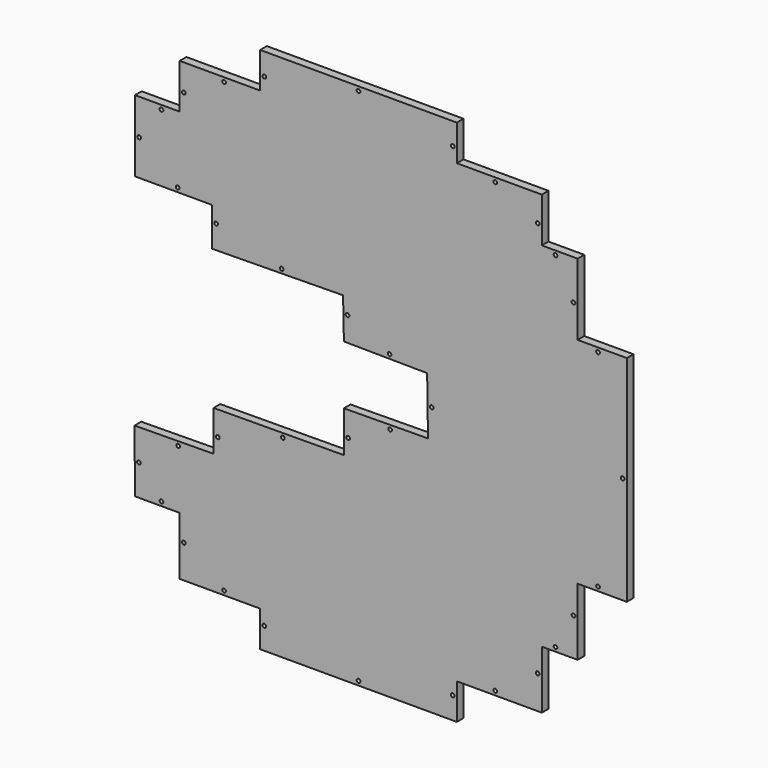
from build123d import *

# Parameters (mm, degrees)
F0_R     = 2
F1_DEPTH = 9


with BuildPart() as f1:
    # F0 (on Front) → F1 (new body)
    with BuildSketch(Plane.XZ):
        Polygon((265.897079, -111.097285), (265.897079, 120.763555), (212.761675, 120.763555), (212.761675, 198.045397), (174.114259, 198.045397), (174.114259, 246.352586), (82.3411, 246.352586), (82.3411, 285.000002), (-130.196029, 285.000002), (-130.196029, 246.352586), (-217.152296, 246.352586), (-217.152296, 198.045397), (-265.461152, 198.045397), (-265.461152, 120.763555), (-182.215667, 120.657777), (-182.292131, 78.99439), (-40.622253, 80.756165), (-39.717878, 37.151925), (50.208882, 36.247385), (51.121586, -25.518982), (-39.717878, -26.429854), (-39.717878, -70.935305), (-180.510698, -71.846343), (-180.510698, -115.447249), (-265.897079, -116.364784), (-265.461152, -183.560564), (-217.152296, -183.560564), (-217.152296, -246.360741), (-130.196029, -246.360741), (-130.196029, -284.999998), (82.3411, -284.999998), (82.3411, -246.360741), (174.114259, -246.360741), (174.114259, -183.560564), (212.761675, -183.560564), (212.761675, -111.097285), align=None)
        with Locations((-169.174156, -241.860734)):
            Circle(F0_R, mode=Mode.SUBTRACT)
        with Locations((-236.821267, -179.060557)):
            Circle(F0_R, mode=Mode.SUBTRACT)
        with Locations((-212.652289, -210.460646)):
            Circle(F0_R, mode=Mode.SUBTRACT)
        with Locations((-261.179171, -149.93847)):
            Circle(F0_R, mode=Mode.SUBTRACT)
        with Locations((-125.696022, -261.180363)):
            Circle(F0_R, mode=Mode.SUBTRACT)
        with Locations((-23.927464, -280.499991)):
            Circle(F0_R, mode=Mode.SUBTRACT)
        with Locations((-218.689395, -120.357772)):
            Circle(F0_R, mode=Mode.SUBTRACT)
        with Locations((-176.010692, -98.108243)):
            Circle(F0_R, mode=Mode.SUBTRACT)
        with Locations((-105.614282, -75.861807)):
            Circle(F0_R, mode=Mode.SUBTRACT)
        with Locations((-35.217872, -53.145626)):
            Circle(F0_R, mode=Mode.SUBTRACT)
        with Locations((77.841094, -261.180363)):
            Circle(F0_R, mode=Mode.SUBTRACT)
        with Locations((123.727673, -241.860734)):
            Circle(F0_R, mode=Mode.SUBTRACT)
        with Locations((169.614252, -210.460646)):
            Circle(F0_R, mode=Mode.SUBTRACT)
        with Locations((188.937961, -179.060557)):
            Circle(F0_R, mode=Mode.SUBTRACT)
        with Locations((208.261669, -142.828918)):
            Circle(F0_R, mode=Mode.SUBTRACT)
        with Locations((10.235017, -30.429196)):
            Circle(F0_R, mode=Mode.SUBTRACT)
        with Locations((234.829371, -106.597278)):
            Circle(F0_R, mode=Mode.SUBTRACT)
        with Locations((-219.334275, 125.204953)):
            Circle(F0_R, mode=Mode.SUBTRACT)
        with Locations((-177.74558, 104.351434)):
            Circle(F0_R, mode=Mode.SUBTRACT)
        with Locations((-35.762538, 63.459567)):
            Circle(F0_R, mode=Mode.SUBTRACT)
        with Locations((-106.999755, 84.431064)):
            Circle(F0_R, mode=Mode.SUBTRACT)
        with Locations((-260.961145, 159.401619)):
            Circle(F0_R, mode=Mode.SUBTRACT)
        with Locations((-236.806717, 193.54539)):
            Circle(F0_R, mode=Mode.SUBTRACT)
        with Locations((-212.652289, 217.698985)):
            Circle(F0_R, mode=Mode.SUBTRACT)
        with Locations((-169.174156, 241.852579)):
            Circle(F0_R, mode=Mode.SUBTRACT)
        with Locations((-125.696022, 261.176288)):
            Circle(F0_R, mode=Mode.SUBTRACT)
        with Locations((-23.927464, 280.499996)):
            Circle(F0_R, mode=Mode.SUBTRACT)
        with Locations((55.165724, 5.364793)):
            Circle(F0_R, mode=Mode.SUBTRACT)
        with Locations((9.66711, 41.155414)):
            Circle(F0_R, mode=Mode.SUBTRACT)
        with Locations((261.397073, 4.833135)):
            Circle(F0_R, mode=Mode.SUBTRACT)
        with Locations((234.829371, 116.263548)):
            Circle(F0_R, mode=Mode.SUBTRACT)
        with Locations((123.727673, 241.852579)):
            Circle(F0_R, mode=Mode.SUBTRACT)
        with Locations((77.841094, 261.176288)):
            Circle(F0_R, mode=Mode.SUBTRACT)
        with Locations((188.937961, 193.54539)):
            Circle(F0_R, mode=Mode.SUBTRACT)
        with Locations((208.261669, 154.904469)):
            Circle(F0_R, mode=Mode.SUBTRACT)
        with Locations((169.614252, 217.698985)):
            Circle(F0_R, mode=Mode.SUBTRACT)
    extrude(amount=F1_DEPTH)


solid = f1.part
